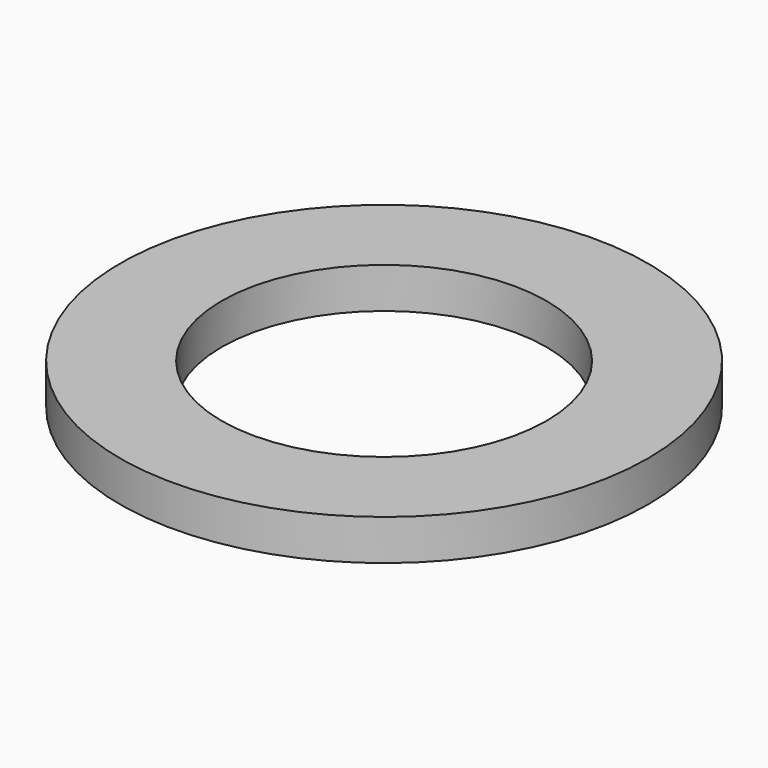
from build123d import *

# Parameters (mm, degrees)
CYLINDER007_R     = 0.4
CYLINDER007_DEPTH = 0.1
CYLINDER006_R     = 0.65
CYLINDER006_DEPTH = 0.1


with BuildPart() as cylinder007:
    # Cylinder007 → Cylinder007 (new body)
    with BuildSketch(Plane.XY.offset(1.62)):
        Circle(CYLINDER007_R)
    extrude(amount=CYLINDER007_DEPTH)


with BuildPart() as cut006:
    # Cylinder006 → Cylinder006 (new body)
    with BuildSketch(Plane.XY.offset(1.62)):
        Circle(CYLINDER006_R)
    extrude(amount=CYLINDER006_DEPTH)

    # Cut006: cut Cylinder007
    add(cylinder007.part, mode=Mode.SUBTRACT)


with BuildPart() as cut006_1:
    # Cut006 placement: moved
    add(cut006.part.moved(Location((3.64, 12.7, 0))))


solid = cut006_1.part
